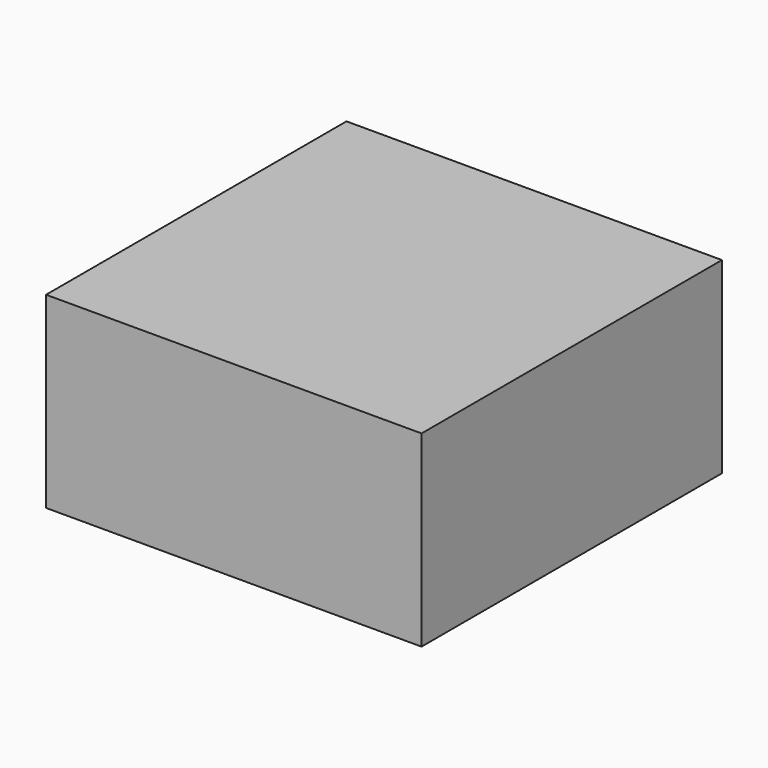
from build123d import *

# Parameters (mm, degrees)
F1_R     = 6.25
F2_DEPTH = 6.4
F3_DEPTH = 25


with BuildPart() as f2:
    # F1 (on Top) → F2 (new body)
    with BuildSketch(Plane.XY):
        Polygon((25, 0), (25, 25), (0, 25), (-25, 25), (-25, 0), (-25, -25), (0, -25), (25, -25), align=None)
        with Locations((-12.5, -12.5)):
            Circle(F1_R, mode=Mode.SUBTRACT)
        with Locations((12.5, -12.5)):
            Circle(F1_R, mode=Mode.SUBTRACT)
        with Locations((-12.5, 12.5)):
            Circle(F1_R, mode=Mode.SUBTRACT)
        with Locations((12.5, 12.5)):
            Circle(F1_R, mode=Mode.SUBTRACT)
    extrude(amount=F2_DEPTH)


with BuildPart() as f3:
    # F1 (on Top) → F3 (new body)
    with BuildSketch(Plane.XY):
        Polygon((25, 0), (25, 25), (0, 25), (-25, 25), (-25, 0), (-25, -25), (0, -25), (25, -25), align=None)
        with Locations((-12.5, -12.5)):
            Circle(F1_R, mode=Mode.SUBTRACT)
        with Locations((12.5, -12.5)):
            Circle(F1_R, mode=Mode.SUBTRACT)
        with Locations((-12.5, 12.5)):
            Circle(F1_R, mode=Mode.SUBTRACT)
        with Locations((12.5, 12.5)):
            Circle(F1_R, mode=Mode.SUBTRACT)
        with Locations((-12.5, -12.5)):
            Circle(F1_R)
        with Locations((12.5, -12.5)):
            Circle(F1_R)
        with Locations((12.5, 12.5)):
            Circle(F1_R)
        with Locations((-12.5, 12.5)):
            Circle(F1_R)
    extrude(amount=F3_DEPTH)


solid = Compound([f2.part, f3.part])
